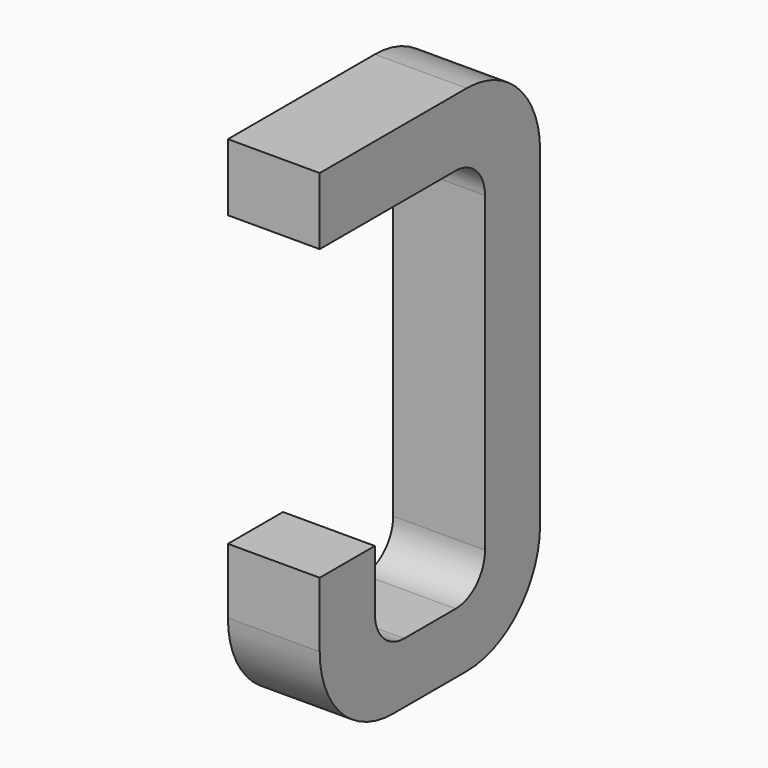
from build123d import *

# Parameters (mm, degrees)
BOX144_W     = 0.5
BOX144_H     = 1.5
BOX144_DEPTH = 2.795
FILLET301_R  = 0.5
FILLET321_R  = 0.5
FILLET300_R  = 0.5
BOX142_W     = 0.75
BOX142_H     = 2.1
BOX142_DEPTH = 1
FILLET271_R  = 0.2
FILLET309_R  = 0.2
FILLET270_R  = 0.2
FILLET306_R  = 0.2
BOX149_W     = 1
BOX149_H     = 1.575
BOX149_DEPTH = 3


with BuildPart() as part:
    # Box144 → Box144 (join)
    with BuildSketch(Plane(origin=(-0.25, 11.125, 0), x_dir=(1, 0, 0), z_dir=(0, 0, 1))):
        with Locations((0.25, 0.75)):
            Rectangle(BOX144_W, BOX144_H)
    extrude(amount=BOX144_DEPTH)

    # Fillet301
    fillet301_edges = [part.edges().sort_by_distance(p)[0] for p in [
        (0, 12.625, 0),
    ]]
    fillet(fillet301_edges, radius=FILLET301_R)

    # Fillet321
    fillet321_edges = [part.edges().sort_by_distance(p)[0] for p in [
        (0, 12.625, 2.795),
    ]]
    fillet(fillet321_edges, radius=FILLET321_R)

    # Fillet300
    fillet300_edges = [part.edges().sort_by_distance(p)[0] for p in [
        (0, 11.125, 0),
    ]]
    fillet(fillet300_edges, radius=FILLET300_R)

    # Box142 → Box142 (cut)
    with BuildSketch(Plane(origin=(-0.5, 11.5, 0.33), x_dir=(0, 1, 0), z_dir=(1, 0, 0))):
        with Locations((0.375, 1.05)):
            Rectangle(BOX142_W, BOX142_H)
    extrude(amount=BOX142_DEPTH, mode=Mode.SUBTRACT)

    # Fillet271
    fillet271_edges = [part.edges().sort_by_distance(p)[0] for p in [
        (0, 11.5, 0.33),
    ]]
    fillet(fillet271_edges, radius=FILLET271_R)

    # Fillet309
    fillet309_edges = [part.edges().sort_by_distance(p)[0] for p in [
        (0, 12.25, 0.33),
    ]]
    fillet(fillet309_edges, radius=FILLET309_R)

    # Fillet270
    fillet270_edges = [part.edges().sort_by_distance(p)[0] for p in [
        (0, 11.5, 2.43),
    ]]
    fillet(fillet270_edges, radius=FILLET270_R)

    # Fillet306
    fillet306_edges = [part.edges().sort_by_distance(p)[0] for p in [
        (0, 12.25, 2.43),
    ]]
    fillet(fillet306_edges, radius=FILLET306_R)

    # Box149 → Box149 (cut)
    with BuildSketch(Plane(origin=(-1, 11, 0.855), x_dir=(0, 1, 0), z_dir=(1, 0, 0))):
        with Locations((0.5, 0.7875)):
            Rectangle(BOX149_W, BOX149_H)
    extrude(amount=BOX149_DEPTH, mode=Mode.SUBTRACT)


with BuildPart() as part_1:
    # Body045 placement: moved
    add(part.part.moved(Location((-5.08, 0, 0))))


solid = part_1.part
